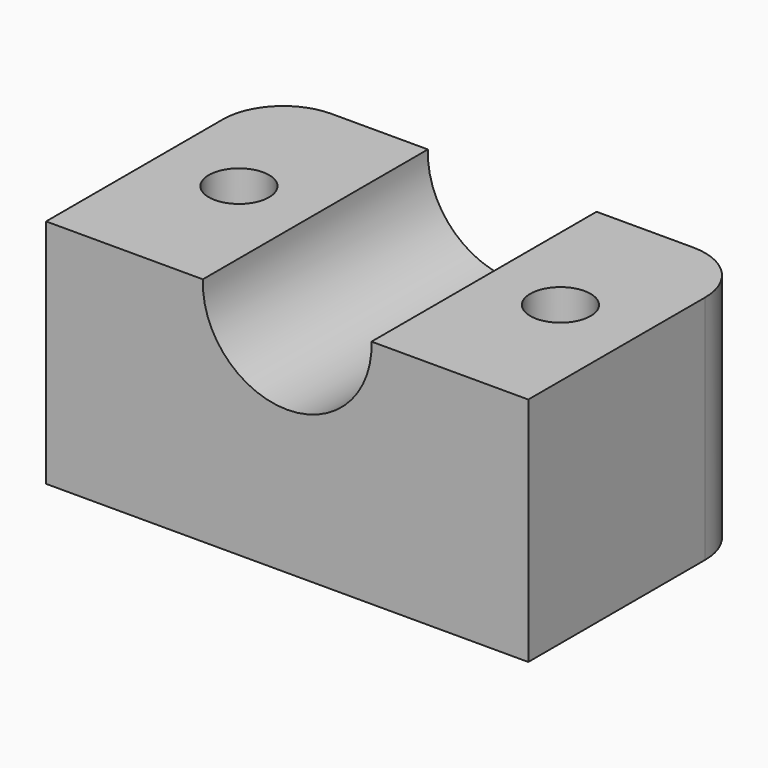
from build123d import *

# Parameters (mm, degrees)
BOX001_W        = 24
BOX001_H        = 14
BOX001_DEPTH    = 11.5
SKETCH001_R     = 4.2
POCKET001_DEPTH = 14
SKETCH002_R     = 1.5
POCKET002_DEPTH = 11.501
FILLET003_R     = 3


with BuildPart() as part:
    # Box001 → Box001 (new body)
    with BuildSketch(Plane(origin=(-2.5, 17, 0), x_dir=(1, 0, 0), z_dir=(0, 0, 1))):
        with Locations((12, 7)):
            Rectangle(BOX001_W, BOX001_H)
    extrude(amount=BOX001_DEPTH)

    # Sketch001 → Pocket001 (cut)
    with BuildSketch(Plane(origin=(-2.5, 31, 0), x_dir=(-1, 0, 0), z_dir=(0, 1, 0))):
        with Locations((-12, 11.35)):
            Circle(SKETCH001_R)
    extrude(amount=-POCKET001_DEPTH, mode=Mode.SUBTRACT)

    # Sketch002 → Pocket002 (cut, through all)
    with BuildSketch(Plane(origin=(-2.5, 17, 0), x_dir=(1, 0, 0), z_dir=(0, 0, -1))):
        with Locations((4, -7)):
            Circle(SKETCH002_R)
        with Locations((20, -7)):
            Circle(SKETCH002_R)
    extrude(amount=-POCKET002_DEPTH, mode=Mode.SUBTRACT)

    # Fillet003
    fillet003_edges = [part.edges().sort_by_distance(p)[0] for p in [
        (-2.5, 31, 5.75),
        (21.5, 31, 5.75),
    ]]
    fillet(fillet003_edges, radius=FILLET003_R)


solid = part.part
